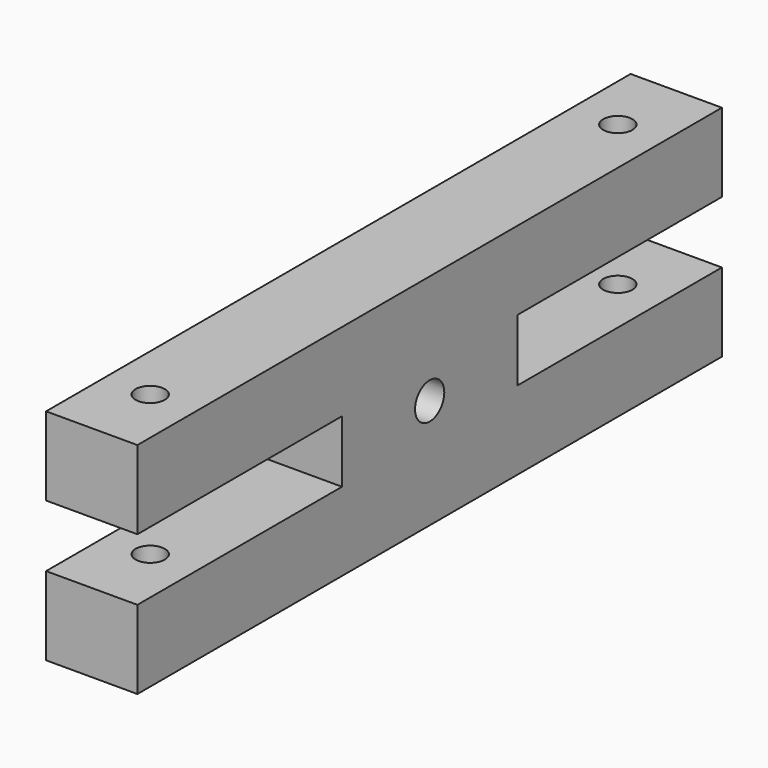
from build123d import *

# Parameters (mm, degrees)
F0_R     = 5
F1_DEPTH = 12.5
F3_D     = 8


with BuildPart() as f1:
    # F0 (on Right) → F1 (new body, symmetric)
    with BuildSketch(Plane.YZ):
        Polygon((-100, -30), (100, -30), (100, -8.5), (30, -8.5), (30, 8.5), (100, 8.5), (100, 30), (-100, 30), (-100, 8.5), (-30, 8.5), (-30, -8.5), (-100, -8.5), align=None)
        Circle(F0_R, mode=Mode.SUBTRACT)
    extrude(amount=F1_DEPTH, both=True)

    # F3 (through all)
    with Locations(Plane.XY.offset(30)):
        with Locations((0, -80), (0, 80)):
            Hole(F3_D / 2)


solid = f1.part
